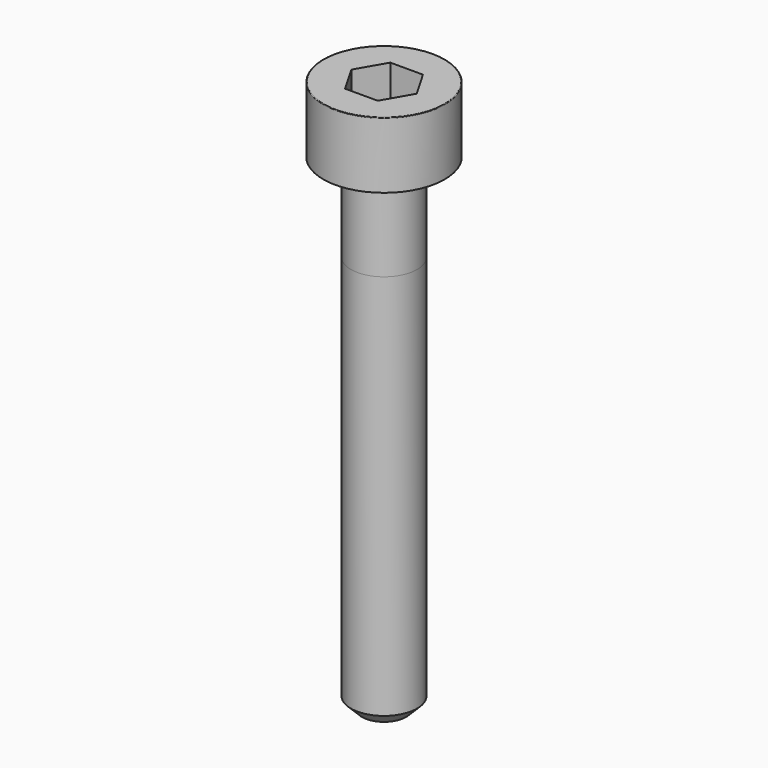
from build123d import *

# Parameters (mm, degrees)
POCKET_DEPTH = 2.56


with BuildPart() as part:
    # Sketch → Revolve (revolve)
    with BuildSketch(Plane.YZ):
        with BuildLine():
            Line((1.499, 0), (2.75, 0))
            Line((2.75, 0), (2.75, 2.97229))
            ThreePointArc((2.75, 2.97229), (2.741884, 2.991884), (2.72229, 3))
            Line((2.72229, 3), (0, 3))
            Line((0, -22), (0, 3))
            Line((1, -22), (0, -22))
            Line((1.5, -21.5), (1, -22))
            Line((1.5, -4), (1.5, -21.5))
            Line((1.499, 0), (1.5, -4))
        make_face()
    revolve(axis=Axis((0, 0, 0), (0, 0, 1)))

    # Sketch001 → Pocket (cut)
    with BuildSketch(Plane.XY.offset(3)):
        Polygon((1.478017, 0), (0.739008, 1.28), (-0.739008, 1.28), (-1.478017, 0), (-0.739008, -1.28), (0.739008, -1.28), align=None)
    extrude(amount=-POCKET_DEPTH, mode=Mode.SUBTRACT)


solid = part.part
